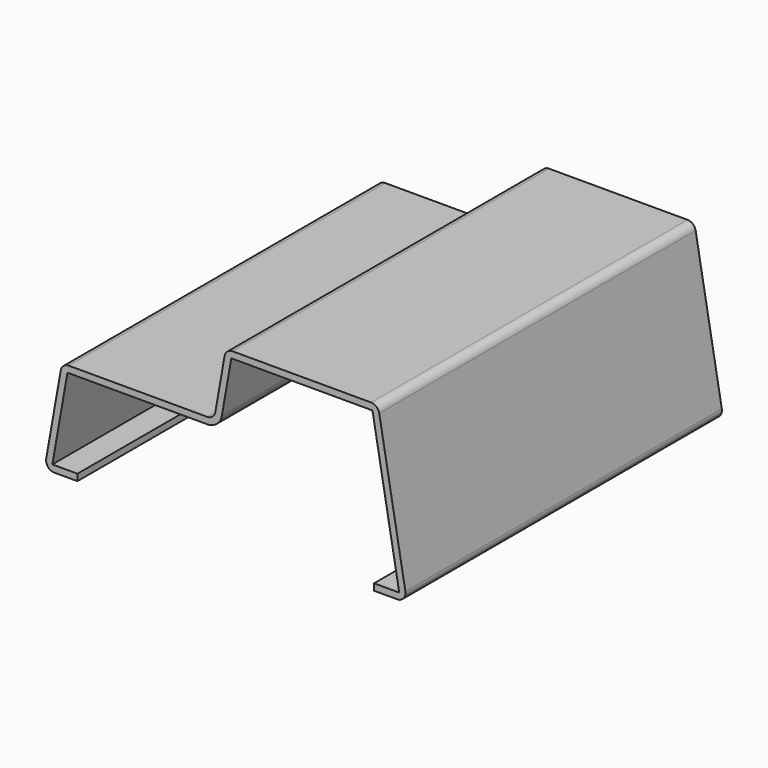
from build123d import *

# Parameters (mm, degrees)
F1_DEPTH = 152.4


with BuildPart() as f1:
    # F0 (on Front) → F1 (new body)
    with BuildSketch(Plane.XZ):
        with BuildLine():
            Line((-8.916182, 0), (0, 0))
            Line((0, 0), (0, 2.54))
            Line((0, 2.54), (-9.672946, 2.54))
            Line((-9.672946, 2.54), (-3.850629, 35.56))
            Line((-3.850629, 35.56), (50.007153, 35.56))
            ThreePointArc((50.007153, 35.56), (53.680685, 36.897056), (55.63533, 40.282601))
            Line((55.63533, 40.282601), (59.281313, 60.96))
            Line((59.281313, 60.96), (113.671924, 60.96))
            Line((113.671924, 60.96), (123.972946, 2.54))
            Line((123.972946, 2.54), (114.3, 2.54))
            Line((114.3, 2.54), (114.3, 0))
            Line((114.3, 0), (123.216182, 0))
            ThreePointArc((123.216182, 0), (125.648373, 1.134149), (126.342947, 3.726333))
            Line((126.342947, 3.726333), (116.26586, 60.876333))
            ThreePointArc((116.26586, 60.876333), (115.179946, 62.757191), (113.139095, 63.5))
            Line((113.139095, 63.5), (59.814141, 63.5))
            ThreePointArc((59.814141, 63.5), (57.773291, 62.757191), (56.687377, 60.876333))
            Line((56.687377, 60.876333), (53.133918, 40.723667))
            ThreePointArc((53.133918, 40.723667), (52.048004, 38.842809), (50.007153, 38.1))
            Line((50.007153, 38.1), (-3.317801, 38.1))
            ThreePointArc((-3.317801, 38.1), (-5.358651, 37.357191), (-6.444565, 35.476333))
            Line((-6.444565, 35.476333), (-12.042947, 3.726333))
            ThreePointArc((-12.042947, 3.726333), (-11.348373, 1.134149), (-8.916182, 0))
        make_face()
    extrude(amount=F1_DEPTH)


solid = f1.part
